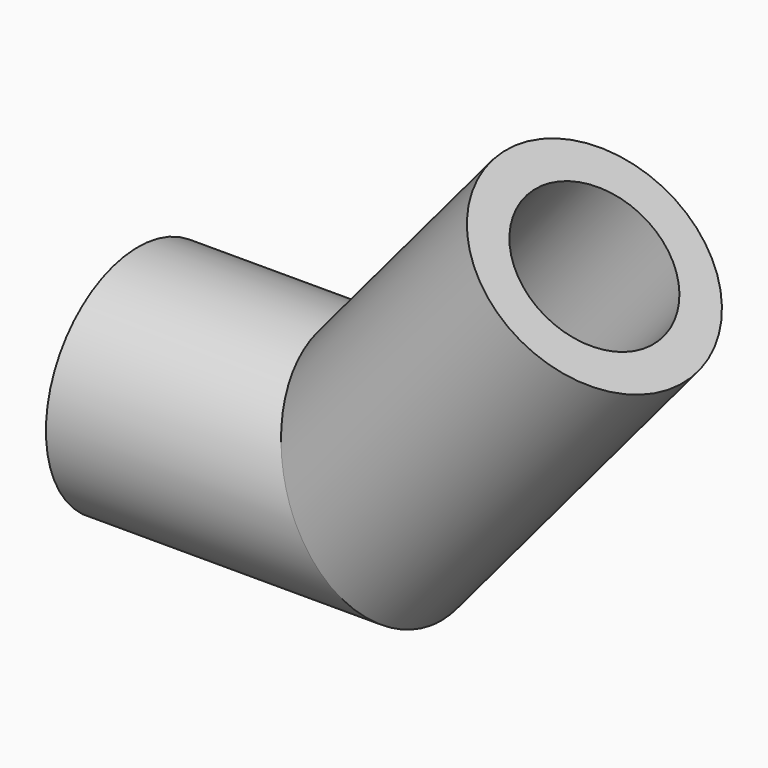
from build123d import *

# Parameters (mm, degrees)
F1_R   = 15
F1_R_2 = 10


with BuildPart() as f2:
    # F2: sweep along a path in F0
    with BuildLine(Plane.XZ) as f2_path:
        Line((0, 0), (32.5066335499, 0))
        Line((32.5066335499, 0), (59.4394095242, 32.0816971362))
    # F1 (on Right) → F2 (sweep)
    with BuildSketch(Plane.YZ):
        Circle(F1_R)
        Circle(F1_R_2, mode=Mode.SUBTRACT)
    sweep(path=f2_path.line, transition=Transition.RIGHT)


solid = f2.part
